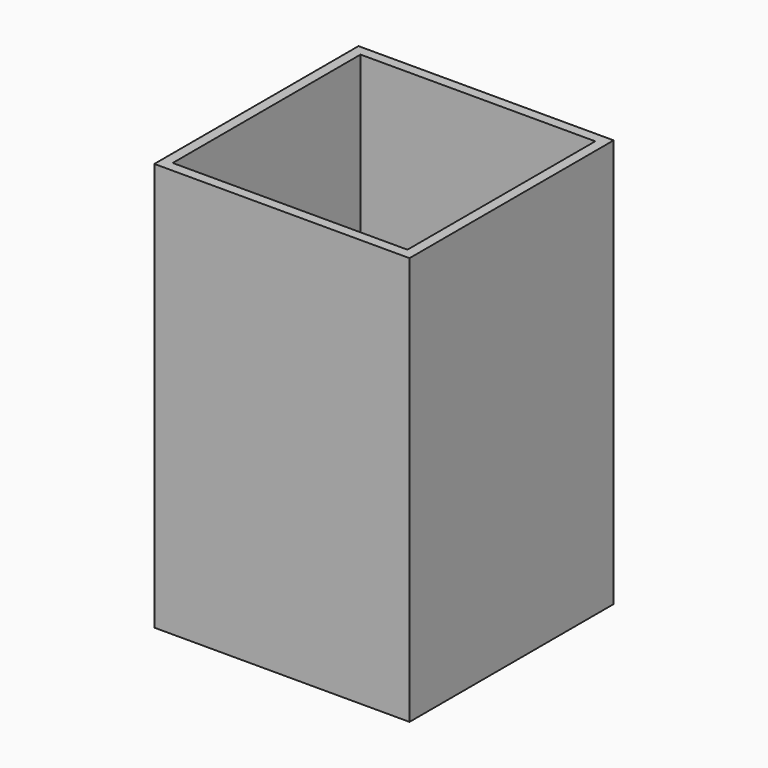
from build123d import *

# Parameters (mm, degrees)
BOX001_W     = 46
BOX001_H     = 46
BOX001_DEPTH = 80
BOX_W        = 50
BOX_H        = 50
BOX_DEPTH    = 80


with BuildPart() as cube001:
    # Box001 → Box001 (new body)
    with BuildSketch(Plane(origin=(2, 2, 0), x_dir=(1, 0, 0), z_dir=(0, 0, 1))):
        with Locations((23, 23)):
            Rectangle(BOX001_W, BOX001_H)
    extrude(amount=BOX001_DEPTH)


with BuildPart() as cut:
    # Box → Box (new body)
    with BuildSketch(Plane.XY):
        with Locations((25, 25)):
            Rectangle(BOX_W, BOX_H)
    extrude(amount=BOX_DEPTH)

    # Cut: cut Cube001
    add(cube001.part, mode=Mode.SUBTRACT)


solid = cut.part
